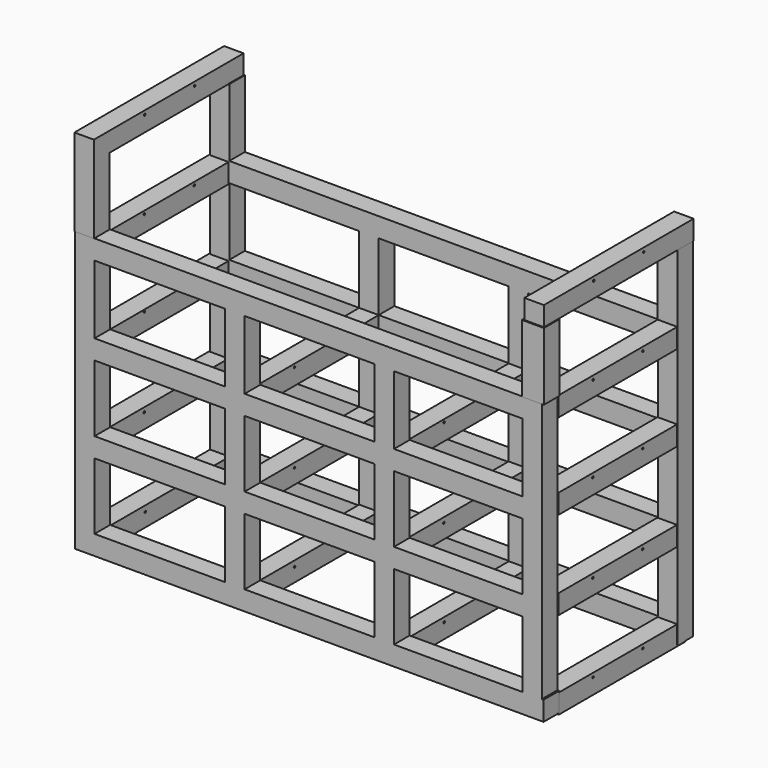
from build123d import *

# Parameters (mm, degrees)
F0_W      = 423.418
F0_H      = 63.5
F0_W_2    = 423.164
F0_W_3    = 63.5
F0_H_2    = 219.964
F0_H_3    = 220.218
F1_DEPTH  = 31.75
F2_DEPTH  = 31.75
F3_W      = 63.5
F3_H      = 63.5
F3_W_2    = 63.1605684757
F4_DEPTH  = 514.35
F5_W      = 63.5
F5_H      = 63.5
F5_H_2    = 217.2287946343
F5_H_3    = 223.0970283747
F5_W_2    = 425.5990128517
F5_W_3    = 60.8704218864
F5_W_4    = 423.2019484043
F5_W_5    = 418.2076027393
F5_H_4    = 216.8059592843
F5_W_6    = 5.6797733307
F6_DEPTH  = 63.5
F8_D      = 6.35
F8_DEPTH  = 6.35
F8_TIP    = 1.9077324654
F10_D     = 6.35
F11_W     = 65.0055115051
F11_H     = 63.5
F11_W_2   = 63.5
F12_DEPTH = 220.218
F13_W     = 71.6491301616
F13_H     = 63.5
F13_W_2   = 63.5
F14_DEPTH = 220.218
F15_W     = 63.5
F15_H     = 609.6
F16_DEPTH = 63.5
F18_D     = 6.35


with BuildPart() as f1:
    # F0 (on Front) → F1 (new body, symmetric)
    with BuildSketch(Plane.XZ):
        Polygon((-486.918, 484.8566017927), (-550.418, 484.8566017927), (-550.418, -366.0433982073), (-486.918, -366.0433982073), (-486.918, -302.5433982073), (-486.918, -82.5793982073), (-486.918, -19.0793982073), (-486.918, 201.1386017927), (-486.918, 264.6386017927), align=None)
        with Locations((-275.209, -50.8293982073)):
            Rectangle(F0_W, F0_H)
        with Locations((211.709, -50.8293982073)):
            Rectangle(F0_W, F0_H)
        with Locations((698.5, -50.8293982073)):
            Rectangle(F0_W_2, F0_H)
        with Locations((455.168, -192.5613982073)):
            Rectangle(F0_W_3, F0_H_2)
        with Locations((455.168, -50.8293982073)):
            Rectangle(F0_W_3, F0_H)
        with Locations((455.168, 91.0296017927)):
            Rectangle(F0_W_3, F0_H_3)
        with Locations((455.168, 232.8886017927)):
            Rectangle(F0_W_3, F0_H)
        with Locations((455.168, 374.7476017927)):
            Rectangle(F0_W_3, F0_H_3)
        with Locations((211.709, 232.8886017927)):
            Rectangle(F0_W, F0_H)
        with Locations((-31.75, 374.7476017927)):
            Rectangle(F0_W_3, F0_H_3)
        with Locations((-31.75, 91.0296017927)):
            Rectangle(F0_W_3, F0_H_3)
        with Locations((-31.75, -50.8293982073)):
            Rectangle(F0_W_3, F0_H)
        with Locations((-31.75, -192.5613982073)):
            Rectangle(F0_W_3, F0_H_2)
        with Locations((-275.209, 232.8886017927)):
            Rectangle(F0_W, F0_H)
        with Locations((-31.75, 232.8886017927)):
            Rectangle(F0_W_3, F0_H)
        with Locations((698.5, 232.8886017927)):
            Rectangle(F0_W_2, F0_H)
        Polygon((910.082, -302.5433982073), (910.082, -366.0433982073), (973.582, -366.0433982073), (973.582, 484.8566017927), (910.082, 484.8566017927), (910.082, 264.6386017927), (910.082, 201.1386017927), (910.082, -19.0793982073), (910.082, -82.5793982073), align=None)
        Polygon((-486.918, -302.5433982073), (-486.918, -366.0433982073), (910.082, -366.0433982073), (910.082, -302.5433982073), (486.918, -302.5433982073), (423.418, -302.5433982073), (156.8406897326, -302.5433982073), (0, -302.5433982073), (-63.5, -302.5433982073), align=None)
    extrude(amount=F1_DEPTH, both=True)

    # F0 (on Front) → F2 (join, symmetric)
    with BuildSketch(Plane.XZ):
        Polygon((-550.418, 548.3566017927), (-550.418, 484.8566017927), (-486.918, 484.8566017927), (-63.5, 484.8566017927), (0, 484.8566017927), (423.418, 484.8566017927), (486.918, 484.8566017927), (910.082, 484.8566017927), (973.582, 484.8566017927), (973.582, 548.3566017927), align=None)
    extrude(amount=F2_DEPTH, both=True)

    # F3 (on face) → F4 (join)
    with BuildSketch(Plane.XZ):
        with Locations((-520.8490128517, 512.8858701639)):
            Rectangle(F3_W, F3_H)
        with Locations((-520.8490128517, 229.1678701639)):
            Rectangle(F3_W, F3_H)
        with Locations((-31.75, -50.8293982073)):
            Rectangle(F3_W, F3_H)
        with Locations((-31.75, 232.8886017927)):
            Rectangle(F3_W, F3_H)
        with Locations((-517.8349847794, -331.4338560104)):
            Rectangle(F3_W, F3_H)
        with Locations((-31.75, -331.4338560104)):
            Rectangle(F3_W, F3_H)
        with Locations((940.935051918, -337.4618227482)):
            Rectangle(F3_W, F3_H)
        with Locations((940.935051918, 515.4966776371)):
            Rectangle(F3_W, F3_H)
        with Locations((-521.0690732002, -51.0270084143)):
            Rectangle(F3_W, F3_H)
        with Locations((454.9982842379, -49.2227013111)):
            Rectangle(F3_W_2, F3_H)
        with Locations((939.9429326057, -52.8313080668)):
            Rectangle(F3_W, F3_H)
        with Locations((455.916785717, -335.3576595783)):
            Rectangle(F3_W, F3_H)
        with Locations((455.3653066158, 231.9555048943)):
            Rectangle(F3_W, F3_H)
        with Locations((940.3264884949, 235.6155877113)):
            Rectangle(F3_W, F3_H)
    extrude(amount=F4_DEPTH)

    # F5 (on face) → F6 (join)
    with BuildSketch(Plane.XZ.offset(514.35)):
        with Locations((-520.8490128517, 229.1678701639)):
            Rectangle(F5_W, F5_H)
        with Locations((-520.8490128517, 88.8034728467)):
            Rectangle(F5_W, F5_H_2)
        with Locations((-520.8490128517, 372.4663843513)):
            Rectangle(F5_W, F5_H_3)
        with Locations((-520.8490128517, -51.5609244704)):
            Rectangle(F5_W, F5_H)
        with Locations((-520.8490128517, 515.7648985386)):
            Rectangle(F5_W, F5_H)
        Polygon((-489.0990128517, -83.3109244704), (-552.5990128517, -83.3109244704), (-552.5990128517, -363.6168837547), (-549.9694347382, -363.6168837547), (-549.9694347382, -300.1168837547), (-489.0990128517, -300.1168837547), align=None)
        with Locations((-276.2995064259, 515.7648985386)):
            Rectangle(F5_W_2, F5_H)
        with Locations((-31.75, 515.7648985386)):
            Rectangle(F5_W, F5_H)
        with Locations((-519.5342237949, -331.8668837547)):
            Rectangle(F5_W_3, F5_H)
        with Locations((-276.2995064259, -331.8668837547)):
            Rectangle(F5_W_2, F5_H)
        with Locations((211.6009742022, 515.7648985386)):
            Rectangle(F5_W_4, F5_H)
        with Locations((-31.75, -331.8668837547)):
            Rectangle(F5_W, F5_H)
        with Locations((936.6595511436, 229.1678701639)):
            Rectangle(F5_W, F5_H)
        with Locations((936.6595511436, 88.8034728467)):
            Rectangle(F5_W, F5_H_2)
        with Locations((454.9519484043, 515.7648985386)):
            Rectangle(F5_W, F5_H)
        with Locations((211.6009742022, -331.8668837547)):
            Rectangle(F5_W_4, F5_H)
        with Locations((936.6595511436, -51.5609244704)):
            Rectangle(F5_W, F5_H)
        with Locations((936.6595511436, 372.4663843513)):
            Rectangle(F5_W, F5_H_3)
        with Locations((695.805749774, 515.7648985386)):
            Rectangle(F5_W_5, F5_H)
        with Locations((454.9519484043, -331.8668837547)):
            Rectangle(F5_W, F5_H)
        with Locations((936.6595511436, -191.7139041126)):
            Rectangle(F5_W, F5_H_4)
        with Locations((936.6595511436, 515.7648985386)):
            Rectangle(F5_W, F5_H)
        with Locations((695.805749774, -331.8668837547)):
            Rectangle(F5_W_5, F5_H)
        with Locations((936.6595511436, -331.8668837547)):
            Rectangle(F5_W, F5_H)
        with Locations((971.249437809, -331.8668837547)):
            Rectangle(F5_W_6, F5_H)
        with Locations((-276.2995064259, 229.1678701639)):
            Rectangle(F5_W_2, F5_H)
        with Locations((211.6009742022, 229.1678701639)):
            Rectangle(F5_W_4, F5_H)
        with Locations((695.805749774, -51.5609244704)):
            Rectangle(F5_W_5, F5_H)
        with Locations((211.6009742022, -51.5609244704)):
            Rectangle(F5_W_4, F5_H)
        with Locations((-276.2995064259, -51.5609244704)):
            Rectangle(F5_W_2, F5_H)
        with Locations((-31.75, -51.5609244704)):
            Rectangle(F5_W, F5_H)
        with Locations((-31.75, 229.1678701639)):
            Rectangle(F5_W, F5_H)
        with Locations((695.805749774, 229.1678701639)):
            Rectangle(F5_W_5, F5_H)
        with Locations((454.9519484043, 229.1678701639)):
            Rectangle(F5_W, F5_H)
        with Locations((454.9519484043, -51.5609244704)):
            Rectangle(F5_W, F5_H)
        with Locations((454.9519484043, -191.7139041126)):
            Rectangle(F5_W, F5_H_4)
        with Locations((-31.75, -191.7139041126)):
            Rectangle(F5_W, F5_H_4)
        with Locations((454.9519484043, 88.8034728467)):
            Rectangle(F5_W, F5_H_2)
        with Locations((-31.75, 88.8034728467)):
            Rectangle(F5_W, F5_H_2)
        with Locations((454.9519484043, 372.4663843513)):
            Rectangle(F5_W, F5_H_3)
        with Locations((-31.75, 372.4663843513)):
            Rectangle(F5_W, F5_H_3)
    extrude(amount=F6_DEPTH)

    # F8
    with Locations(Plane.XY.offset(547.5148985386)):
        with Locations((-517.6740128517, -542.925)):
            Hole(F8_D / 2, depth=F8_DEPTH)
            with Locations((0, 0, -(F8_DEPTH + F8_TIP / 2))):  # 118° drill point
                Cone(0, F8_D / 2, F8_TIP, mode=Mode.SUBTRACT)

    # F10 (through all)
    with Locations(Plane.YZ.offset(972.685051918)):
        with Locations((-374.65, 254.6655877113), (-171.45, 254.6655877113), (-374.65, 534.5466776371), (-171.45, 534.5466776371), (-374.65, -33.7813080668), (-171.45, -33.7813080668), (-374.65, -318.4118227482), (-171.45, -318.4118227482)):
            Hole(F10_D / 2)

    # F11 (on face) → F12 (join)
    with BuildSketch(Plane.XY.offset(548.3566017927)):
        with Locations((941.0792442474, 0)):
            Rectangle(F11_W, F11_H)
        with Locations((-518.668, 0)):
            Rectangle(F11_W_2, F11_H)
    extrude(amount=F12_DEPTH)

    # F13 (on face) → F14 (join)
    with BuildSketch(Plane.XY.offset(547.5148985386)):
        with Locations((940.7341162244, -547.9272915379)):
            Rectangle(F13_W, F13_H)
        with Locations((-521.4688415527, -547.8399629593)):
            Rectangle(F13_W_2, F13_H)
    extrude(amount=F14_DEPTH)

    # F15 (on face) → F16 (join)
    with BuildSketch(Plane.XY.offset(767.7328985386)):
        with Locations((-521.4688415527, -274.7899629593)):
            Rectangle(F15_W, F15_H)
        with Locations((941.9769878387, -271.2600566864)):
            Rectangle(F15_W, F15_H)
    extrude(amount=F16_DEPTH)

    # F18 (through all)
    with Locations(Plane.YZ.offset(973.7269878387)):
        with Locations((-372.8600566864, 818.5328985386), (-169.6600566864, 818.5328985386)):
            Hole(F18_D / 2)


solid = f1.part
